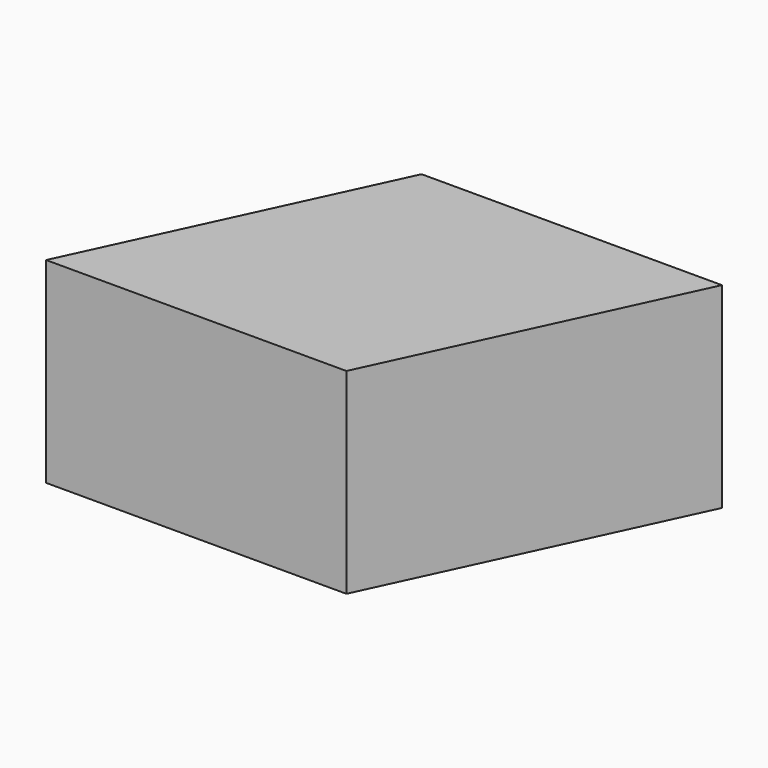
from build123d import *

# Parameters (mm, degrees)
F1_DEPTH = 20.8
F3_DEPTH = 2.5
F4_START = -23.3
F4_DEPTH = 2.5


with BuildPart() as f1:
    # F0 (on Top) → F1 (new body)
    with BuildSketch(Plane.XY):
        Polygon((33.984039904, 0), (0, 0), (16.3207680354, 35), (13.562323238, 35), (-4.62367543, -4), (34.8772540688, -4), (53.0632527369, 35), (50.3048079395, 35), align=None)
    extrude(amount=F1_DEPTH)

    # F2 (on face) → F3 (join)
    with BuildSketch(Plane.XY.offset(20.8)):
        Polygon((50.3048079395, 35), (16.3207680354, 35), (0, 0), (33.984039904, 0), align=None)
        Polygon((16.3207680354, 35), (13.562323238, 35), (-4.62367543, -4), (34.8772540688, -4), (53.0632527369, 35), (50.3048079395, 35), (33.984039904, 0), (0, 0), align=None)
    extrude(amount=F3_DEPTH)

    # F3_face (on face) → F4 (join)
    with BuildSketch(Plane(origin=(24.2197886534, 15.5, 23.3), x_dir=(1, 0, 0), z_dir=(0, 0, 1)).offset(F4_START)):
        Polygon((-10.6574654154, 19.5), (-28.8434640835, -19.5), (10.6574654154, -19.5), (28.8434640835, 19.5), align=None)
    extrude(amount=-F4_DEPTH)


solid = f1.part
